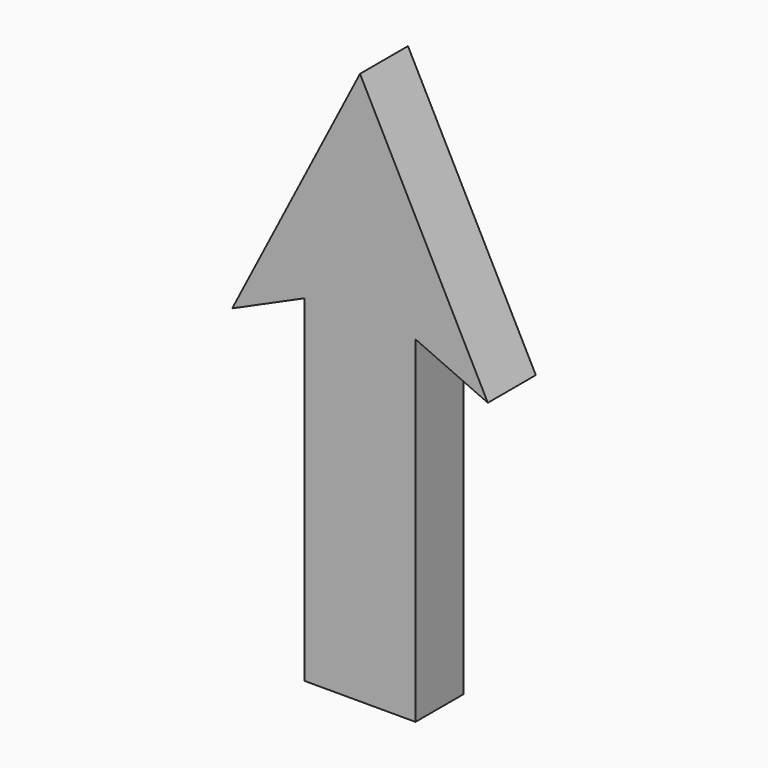
from build123d import *

# Parameters (mm, degrees)
F1_DEPTH = 2.54


with BuildPart() as f1:
    # F0 (on Front) → F1 (new body, symmetric)
    with BuildSketch(Plane.XZ):
        Polygon((0, 46.7954538763), (0, 0), (4.7010933049, 0), (4.7010933049, 28.528785333), (10.8251795173, 25.7835052907), align=None)
    extrude(amount=F1_DEPTH, both=True)

    # F2: F1 across face


with BuildPart() as f1_1:
    add(f1.part)
    add(f1.part.mirror(Plane(origin=(0, 0, 23.3977269381), x_dir=(0, -1, 0), z_dir=(-1, 0, 0))))


solid = f1_1.part
